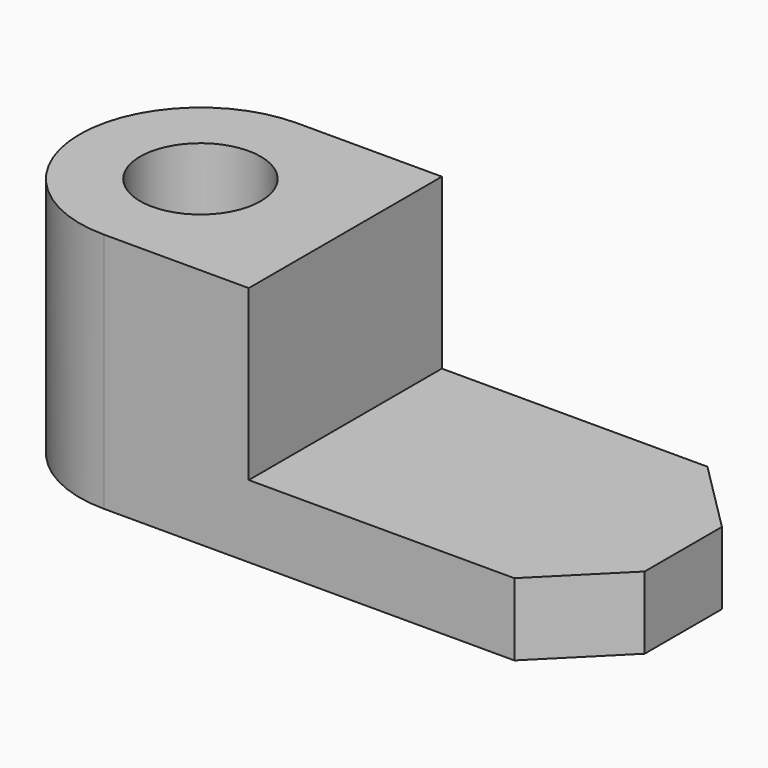
from build123d import *

# Parameters (mm, degrees)
F0_R     = 7.5
F1_DEPTH = 9
F2_R     = 7.5
F3_DEPTH = 21


with BuildPart() as f1:
    # F0 (on Top) → F1 (new body)
    with BuildSketch(Plane.XY):
        with BuildLine():
            ThreePointArc((0, 30), (-15, 15), (0, 0))
            Line((0, 0), (51, 0))
            Line((51, 0), (60, 9))
            Line((60, 9), (60, 21))
            Line((60, 21), (51, 30))
            Line((51, 30), (18, 30))
            Line((18, 30), (0, 30))
        make_face()
        with Locations((0, 15)):
            Circle(F0_R, mode=Mode.SUBTRACT)
    extrude(amount=F1_DEPTH)

    # F2 (on face) → F3 (join)
    with BuildSketch(Plane.XY.offset(9)):
        with BuildLine():
            ThreePointArc((0, 30), (-15, 15), (0, 0))
            Line((0, 0), (18, 0))
            Line((18, 0), (18, 30))
            Line((18, 30), (0, 30))
        make_face()
        with Locations((0, 15)):
            Circle(F2_R, mode=Mode.SUBTRACT)
    extrude(amount=F3_DEPTH)


solid = f1.part
